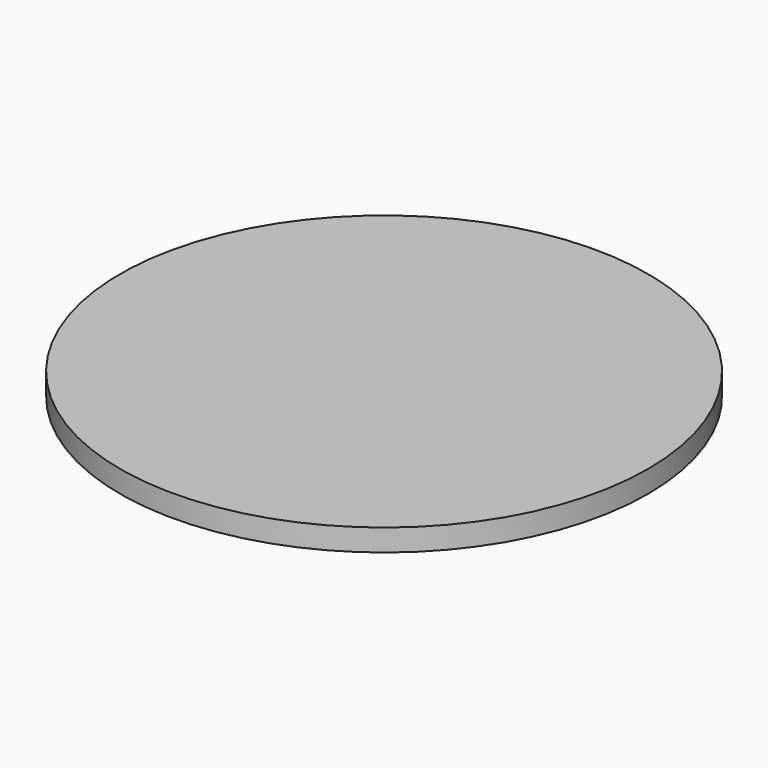
from build123d import *

# Parameters (mm, degrees)
SKETCH001_R  = 18
PAD_DEPTH    = 1.5
SKETCH_R     = 15
POCKET_DEPTH = 1


with BuildPart() as part:
    # Sketch001 → Pad (new body)
    with BuildSketch(Plane(origin=(0, 0, 0), x_dir=(1, 0, 0), z_dir=(0, 0, -1))):
        Circle(SKETCH001_R)
    extrude(amount=PAD_DEPTH)

    # Sketch (on Face3 of Pad) → Pocket (cut)
    with BuildSketch(Plane(origin=(0, 0, -1.5), x_dir=(1, 0, 0), z_dir=(0, 0, -1))):
        Circle(SKETCH_R)
    extrude(amount=-POCKET_DEPTH, mode=Mode.SUBTRACT)


solid = part.part
